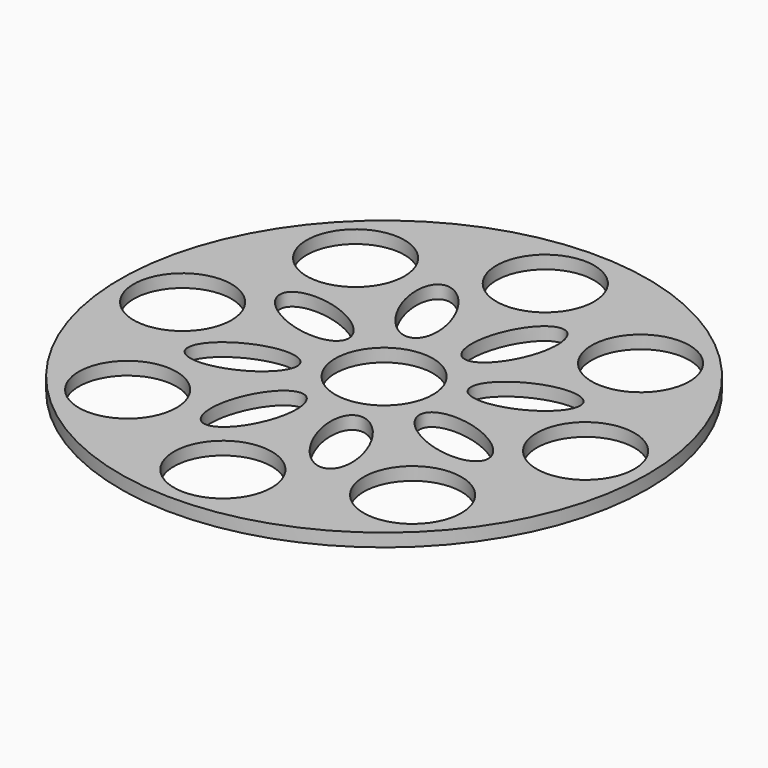
from build123d import *

# Parameters (mm, degrees)
F0_R     = 40.5
F0_R_2   = 7.5
F1_DEPTH = 2


with BuildPart() as f1:
    # F0 (on Top) → F1 (new body)
    with BuildSketch(Plane.XY):
        Circle(F0_R)
        with Locations((-21.862189, -21.862189)):
            Circle(F0_R_2, mode=Mode.SUBTRACT)
        with BuildLine():
            add(Edge.make_bspline(
                [(-4.486369, -9.619494), (-10.125807, -7.5165), (-11.033578, -18.563723), (-11.941349, -29.610946), (-5.39414, -20.666717), (1.15307, -11.722488), (-4.486369, -9.619494)],
                knots=[0, 0, 0, 2.094395, 2.094395, 4.18879, 4.18879, 6.283185, 6.283185, 6.283185], degree=2, weights=[1, 0.5, 1, 0.5, 1, 0.5, 1]))
        make_face(mode=Mode.SUBTRACT)
        with BuildLine():
            add(Edge.make_bspline(
                [(-9.974351, -3.629668), (-12.474995, 1.845059), (-20.928453, -5.324616), (-29.38191, -12.494292), (-18.427809, -10.799343), (-7.473707, -9.104394), (-9.974351, -3.629668)],
                knots=[0, 0, 0, 2.094395, 2.094395, 4.18879, 4.18879, 6.283185, 6.283185, 6.283185], degree=2, weights=[1, 0.5, 1, 0.5, 1, 0.5, 1]))
        make_face(mode=Mode.SUBTRACT)
        with Locations((0, -30.917804)):
            Circle(F0_R_2, mode=Mode.SUBTRACT)
        with Locations((21.862189, -21.862189)):
            Circle(F0_R_2, mode=Mode.SUBTRACT)
        with BuildLine():
            add(Edge.make_bspline(
                [(3.629668, -9.974351), (-1.845059, -12.474995), (5.324616, -20.928453), (12.494292, -29.38191), (10.799343, -18.427809), (9.104394, -7.473707), (3.629668, -9.974351)],
                knots=[0, 0, 0, 2.094395, 2.094395, 4.18879, 4.18879, 6.283185, 6.283185, 6.283185], degree=2, weights=[1, 0.5, 1, 0.5, 1, 0.5, 1]))
        make_face(mode=Mode.SUBTRACT)
        with BuildLine():
            add(Edge.make_bspline(
                [(9.619494, -4.486369), (7.5165, -10.125807), (18.563723, -11.033578), (29.610946, -11.941349), (20.666717, -5.39414), (11.722488, 1.15307), (9.619494, -4.486369)],
                knots=[0, 0, 0, 2.094395, 2.094395, 4.18879, 4.18879, 6.283185, 6.283185, 6.283185], degree=2, weights=[1, 0.5, 1, 0.5, 1, 0.5, 1]))
        make_face(mode=Mode.SUBTRACT)
        with Locations((-30.917804, 0)):
            Circle(F0_R_2, mode=Mode.SUBTRACT)
        with BuildLine():
            add(Edge.make_bspline(
                [(-9.619494, 4.486369), (-7.5165, 10.125807), (-18.563723, 11.033578), (-29.610946, 11.941349), (-20.666717, 5.39414), (-11.722488, -1.15307), (-9.619494, 4.486369)],
                knots=[0, 0, 0, 2.094395, 2.094395, 4.18879, 4.18879, 6.283185, 6.283185, 6.283185], degree=2, weights=[1, 0.5, 1, 0.5, 1, 0.5, 1]))
        make_face(mode=Mode.SUBTRACT)
        with BuildLine():
            add(Edge.make_bspline(
                [(-3.629668, 9.974351), (1.845059, 12.474995), (-5.324616, 20.928453), (-12.494292, 29.38191), (-10.799343, 18.427809), (-9.104394, 7.473707), (-3.629668, 9.974351)],
                knots=[0, 0, 0, 2.094395, 2.094395, 4.18879, 4.18879, 6.283185, 6.283185, 6.283185], degree=2, weights=[1, 0.5, 1, 0.5, 1, 0.5, 1]))
        make_face(mode=Mode.SUBTRACT)
        with Locations((-21.862189, 21.862189)):
            Circle(F0_R_2, mode=Mode.SUBTRACT)
        Circle(F0_R_2, mode=Mode.SUBTRACT)
        with BuildLine():
            add(Edge.make_bspline(
                [(9.974351, 3.629668), (12.474995, -1.845059), (20.928453, 5.324616), (29.38191, 12.494292), (18.427809, 10.799343), (7.473707, 9.104394), (9.974351, 3.629668)],
                knots=[0, 0, 0, 2.094395, 2.094395, 4.18879, 4.18879, 6.283185, 6.283185, 6.283185], degree=2, weights=[1, 0.5, 1, 0.5, 1, 0.5, 1]))
        make_face(mode=Mode.SUBTRACT)
        with BuildLine():
            add(Edge.make_bspline(
                [(4.486369, 9.619494), (10.125807, 7.5165), (11.033578, 18.563723), (11.941349, 29.610946), (5.39414, 20.666717), (-1.15307, 11.722488), (4.486369, 9.619494)],
                knots=[0, 0, 0, 2.094395, 2.094395, 4.18879, 4.18879, 6.283185, 6.283185, 6.283185], degree=2, weights=[1, 0.5, 1, 0.5, 1, 0.5, 1]))
        make_face(mode=Mode.SUBTRACT)
        with Locations((30.917804, 0)):
            Circle(F0_R_2, mode=Mode.SUBTRACT)
        with Locations((0, 30.917804)):
            Circle(F0_R_2, mode=Mode.SUBTRACT)
        with Locations((21.862189, 21.862189)):
            Circle(F0_R_2, mode=Mode.SUBTRACT)
    extrude(amount=F1_DEPTH)


solid = f1.part
